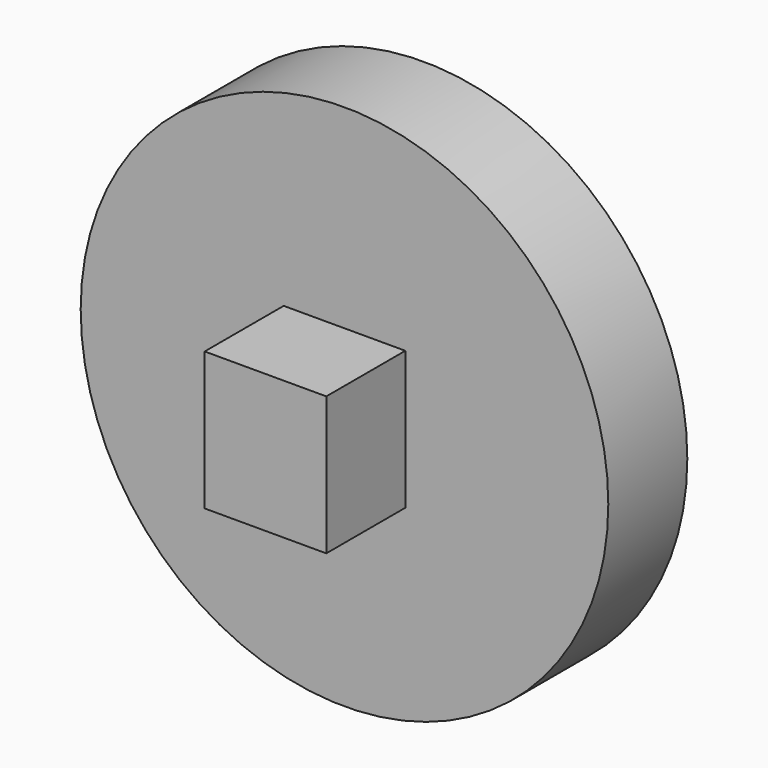
from build123d import *

# Parameters (mm, degrees)
F0_R     = 66.779971
F1_DEPTH = 25
F2_W     = 30.78565
F2_H     = 34.984172
F3_DEPTH = 25


with BuildPart() as f1:
    # F0 (on Front) → F1 (new body)
    with BuildSketch(Plane.XZ):
        with Locations((66.779971, 0)):
            Circle(F0_R)
    extrude(amount=F1_DEPTH)

    # F2 (on face) → F3 (join)
    with BuildSketch(Plane.XZ.offset(25)):
        with Locations((66.779971, 0)):
            Rectangle(F2_W, F2_H)
    extrude(amount=F3_DEPTH)


solid = f1.part
